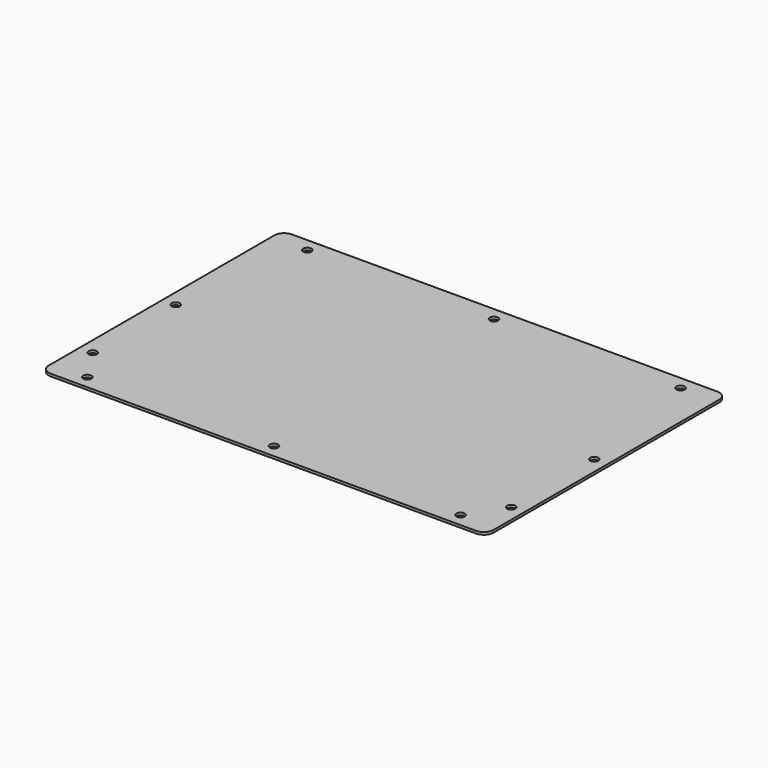
from build123d import *

# Parameters (mm, degrees)
F0_R     = 5.334
F1_DEPTH = 3.175


with BuildPart() as f1:
    # F0 (on Top) → F1 (new body)
    with BuildSketch(Plane.XY):
        with BuildLine():
            Line((33.3248, 325.4248), (-512.7752, 325.4248))
            ThreePointArc((-512.7752, 325.4248), (-521.755456, 321.705056), (-525.4752, 312.7248))
            Line((-525.4752, 312.7248), (-525.4752, -49.2252))
            ThreePointArc((-525.4752, -49.2252), (-521.755456, -58.205456), (-512.7752, -61.9252))
            Line((-512.7752, -61.9252), (33.3248, -61.9252))
            ThreePointArc((33.3248, -61.9252), (42.305056, -58.205456), (46.0248, -49.2252))
            Line((46.0248, -49.2252), (46.0248, 312.7248))
            ThreePointArc((46.0248, 312.7248), (42.305056, 321.705056), (33.3248, 325.4248))
        make_face()
        with Locations((-479.4504, -44.9072)):
            Circle(F0_R, mode=Mode.SUBTRACT)
        with Locations((-508.4572, 0)):
            Circle(F0_R, mode=Mode.SUBTRACT)
        with Locations((-239.7252, -44.9072)):
            Circle(F0_R, mode=Mode.SUBTRACT)
        with Locations((0, -44.9072)):
            Circle(F0_R, mode=Mode.SUBTRACT)
        with Locations((29.0068, 0)):
            Circle(F0_R, mode=Mode.SUBTRACT)
        with Locations((-508.4572, 133.35)):
            Circle(F0_R, mode=Mode.SUBTRACT)
        with Locations((-479.4377, 308.4068)):
            Circle(F0_R, mode=Mode.SUBTRACT)
        with Locations((29.0068, 133.35)):
            Circle(F0_R, mode=Mode.SUBTRACT)
        with Locations((-239.7252, 308.4068)):
            Circle(F0_R, mode=Mode.SUBTRACT)
        with Locations((0, 308.4068)):
            Circle(F0_R, mode=Mode.SUBTRACT)
    extrude(amount=F1_DEPTH)


solid = f1.part
